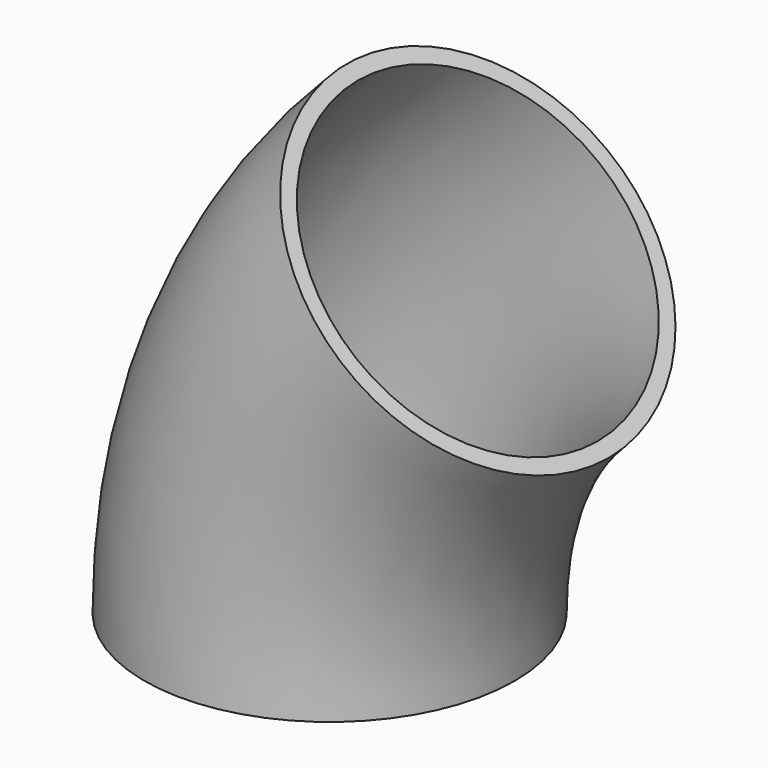
from build123d import *

# Parameters (mm, degrees)
F1_R   = 84.1375
F1_R_2 = 77.0255


with BuildPart() as f2:
    # F2: sweep along a path in F0
    with BuildLine(Plane.XZ) as f2_path:
        ThreePointArc((-229.953842, 0), (-212.449648, 87.999525), (-162.601921, 162.601921))
    # F1 (on Top) → F2 (sweep)
    with BuildSketch(Plane.XY):
        with Locations((-229.953842, 0)):
            Circle(F1_R)
        with Locations((-229.953842, 0)):
            Circle(F1_R_2, mode=Mode.SUBTRACT)
    sweep(path=f2_path.line)


solid = f2.part
